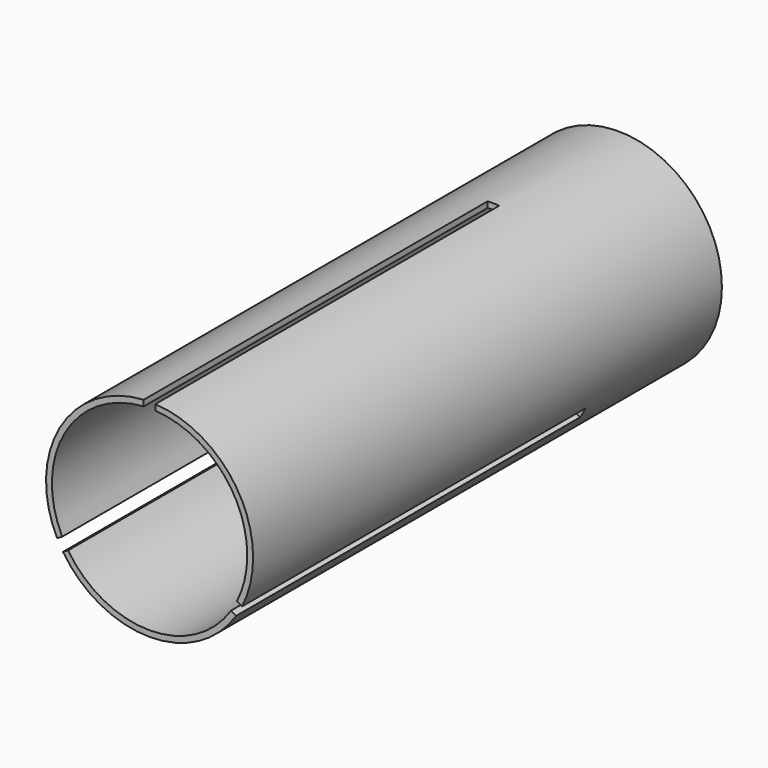
from build123d import *

# Parameters (mm, degrees)
F0_R     = 26.5
F0_R_2   = 25
F1_DEPTH = 75
F3_W     = 3
F3_H     = 5
F4_DEPTH = 110


with BuildPart() as f1:
    # F0 (on Front) → F1 (new body, symmetric)
    with BuildSketch(Plane.XZ):
        Circle(F0_R)
        Circle(F0_R_2, mode=Mode.SUBTRACT)
    extrude(amount=F1_DEPTH, both=True)

    # F3 (on offset) → F4 (cut)
    with BuildSketch(Plane.XZ.offset(75)):
        with Locations((0, 24.5)):
            Rectangle(F3_W, F3_H)
        Polygon((-24.132686, -12.200962), (-22.632686, -14.799038), (-18.302559, -12.299038), (-19.802559, -9.700962), align=None)
        Polygon((22.632686, -14.799038), (24.132686, -12.200962), (19.802559, -9.700962), (18.302559, -12.299038), align=None)
    extrude(amount=-F4_DEPTH, mode=Mode.SUBTRACT)


solid = f1.part
